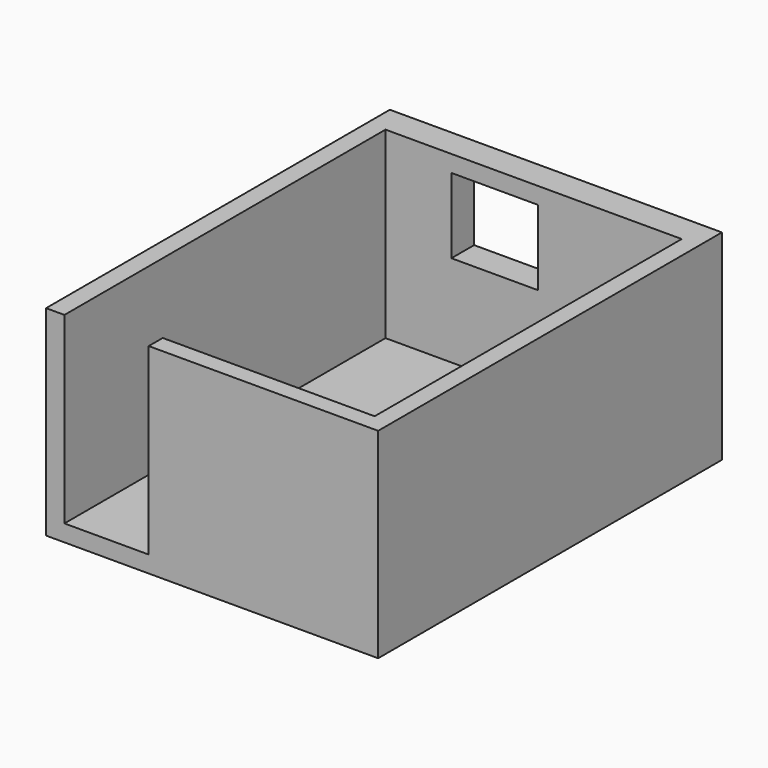
from build123d import *

# Parameters (mm, degrees)
F2_DEPTH = 20
F4_DEPTH = 220
F5_W     = 104
F5_H     = 90
F6_DEPTH = 40


with BuildPart() as f2:
    # F1 (on face) → F2 (new body)
    with BuildSketch(Plane.XY):
        Polygon((413, -75), (688, -75), (688, 440), (290, 440), (290, 406), (290, 141), (290, -75), align=None)
    extrude(amount=F2_DEPTH)

    # F3 (on face) → F4 (join)
    with BuildSketch(Plane.XY.offset(20)):
        Polygon((667, 406), (667, -54), (413, -54), (413, -75), (688, -75), (688, 406), (688, 440), (290, 440), (290, -75), (312, -75), (312, 43), (312, 124), (312, 406), align=None)
    extrude(amount=F4_DEPTH)

    # F5 (on face) → F6 (cut)
    with BuildSketch(Plane(origin=(0, 440, 0), x_dir=(-1, 0, 0), z_dir=(0, 1, 0))):
        with Locations((-443, 175)):
            Rectangle(F5_W, F5_H)
    extrude(amount=-F6_DEPTH, mode=Mode.SUBTRACT)


solid = f2.part
